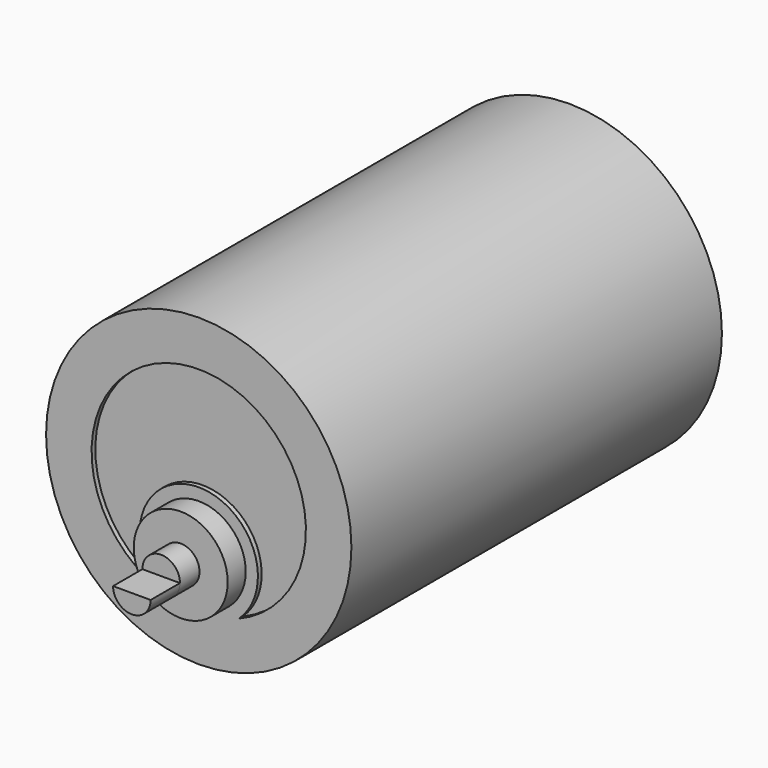
from build123d import *

# Parameters (mm, degrees)
SKETCH001_R  = 16.25
PAD001_DEPTH = 49.3
SKETCH002_R  = 11.408958
POCKET_DEPTH = 0.5
SKETCH003_R  = 6.29816
PAD002_DEPTH = 0.5
SKETCH004_R  = 5
PAD003_DEPTH = 2.4
SKETCH005_R  = 2
PAD004_DEPTH = 2.6
PAD005_DEPTH = 3.9


with BuildPart() as part:
    # Sketch001 → Pad001 (new body)
    with BuildSketch(Plane.XZ):
        with Locations((16.25, 16.25)):
            Circle(SKETCH001_R)
    extrude(amount=PAD001_DEPTH)

    # Sketch002 (on Face3 of Pad001) → Pocket (cut)
    with BuildSketch(Plane.XZ.offset(49.3)):
        with Locations((16.25, 16.25)):
            Circle(SKETCH002_R)
    extrude(amount=-POCKET_DEPTH, mode=Mode.SUBTRACT)

    # Sketch003 (on Face5 of Pocket) → Pad002 (join)
    with BuildSketch(Plane.XZ.offset(48.8)):
        with Locations((16.25, 10.3)):
            Circle(SKETCH003_R)
    extrude(amount=PAD002_DEPTH)

    # Sketch004 (on Face9 of Pad002) → Pad003 (join)
    with BuildSketch(Plane.XZ.offset(49.3)):
        with Locations((16.25, 10.3)):
            Circle(SKETCH004_R)
    extrude(amount=PAD003_DEPTH)

    # Sketch005 (on Face12 of Pad003) → Pad004 (join)
    with BuildSketch(Plane.XZ.offset(51.7)):
        with Locations((16.25, 10.3)):
            Circle(SKETCH005_R)
    extrude(amount=PAD004_DEPTH)

    # Sketch006 (on Face14 of Pad004) → Pad005 (join)
    with BuildSketch(Plane.XZ.offset(54.3)):
        with BuildLine():
            ThreePointArc((14.25, 10.3), (16.25, 8.3), (18.25, 10.3))
            Line((14.25, 10.3), (18.25, 10.3))
        make_face()
    extrude(amount=PAD005_DEPTH)


solid = part.part
